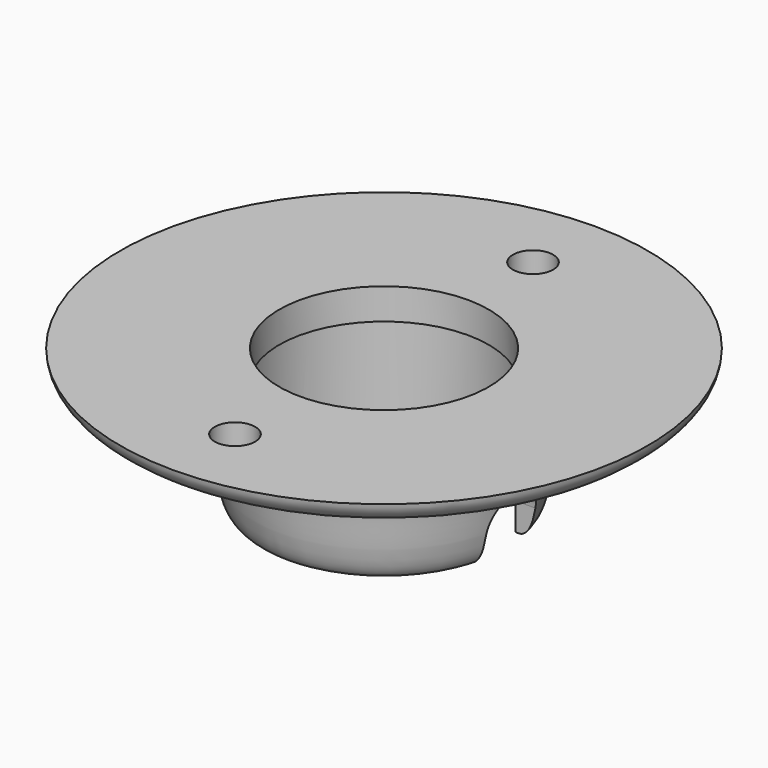
from build123d import *

# Parameters (mm, degrees)
SKETCH001_R          = 1.3
POCKET_DEPTH         = 5
POLARPATTERN_COUNT   = 2
POCKET001_DEPTH      = 10
POCKET001_DEPTH_BACK = -10


with BuildPart() as part:
    # Sketch → Revolution (revolve)
    with BuildSketch(Plane.YZ):
        with BuildLine():
            Line((7.15, 0), (7.15, 7))
            Line((7.15, 7), (6.75, 7))
            Line((6.75, 7), (6.75, 9))
            Line((6.75, 9), (17, 9))
            add(Edge.make_bspline(
                [(17, 9), (16.917401, 7.631443), (14.503575, 6.531762), (8.685306, 7.738315), (8.443995, 4.199092), (8.899804, -0.332185), (7.15, 0)],
                knots=[0, 0, 0, 0, 0, 0.5, 0.5, 1, 1, 1, 1, 1], degree=4))
        make_face()
    revolve(axis=Axis((0, 0, 0), (0, 0, 1)))

    # Sketch001 (on Face4 of Revolution) → Pocket (cut)
    with BuildSketch(Plane(origin=(0, 0, 9), x_dir=(0, -1, 0), z_dir=(0, 0, 1))):
        with Locations((12, 0)):
            Circle(SKETCH001_R)
    pocket = extrude(amount=-POCKET_DEPTH, mode=Mode.SUBTRACT)

    # PolarPattern: Pocket ×2 about axis
    polarpattern_axis = Axis((0, 0, 9), (0, 0, 1))
    for i in range(1, POLARPATTERN_COUNT):
        add(pocket.rotate(polarpattern_axis, i * 360 / POLARPATTERN_COUNT), mode=Mode.SUBTRACT)

    # Sketch002 → Pocket001 (cut, two sides)
    with BuildSketch(Plane.YZ) as pocket001_sk:
        with BuildLine():
            ThreePointArc((-2, -4.212181), (0, -6.212181), (2, -4.212181))
            Line((2, -4.212181), (2, 1.766961))
            ThreePointArc((2, 1.766961), (0, 3.766961), (-2, 1.766961))
            Line((-2, -4.212181), (-2, 1.766961))
        make_face()
    extrude(amount=-POCKET001_DEPTH, mode=Mode.SUBTRACT)
    extrude(pocket001_sk.sketch, amount=-POCKET001_DEPTH_BACK, mode=Mode.SUBTRACT)


solid = part.part
